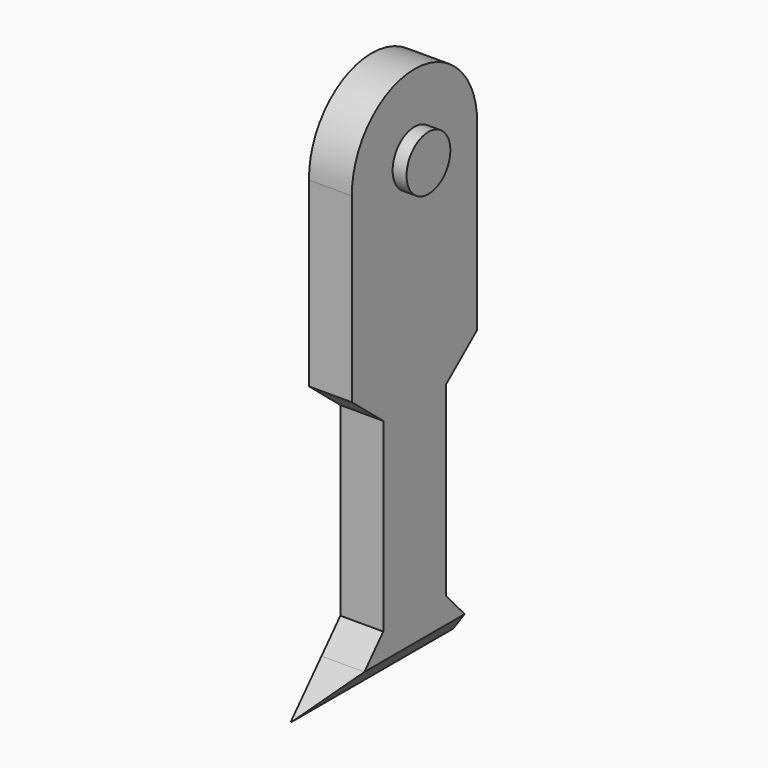
from build123d import *

# Parameters (mm, degrees)
F0_R     = 8.255
F1_DEPTH = 4.189812
F3_DEPTH = 12.934547
F4_SIZE  = 12.7


with BuildPart() as f1:
    # F0 (on Right) → F1 (new body)
    with BuildSketch(Plane.YZ):
        with Locations((0, -36.195)):
            Circle(F0_R)
    extrude(amount=-F1_DEPTH)

    # F2 (on face) → F3 (join)
    with BuildSketch(Plane(origin=(-4.189812, 0, 0), x_dir=(0, -1, 0), z_dir=(-1, 0, 0))):
        with BuildLine():
            ThreePointArc((23.570169, -36.736008), (0, -12.618623), (-23.570169, -36.736008))
            Line((-23.570169, -36.736008), (-23.570169, -91.458903))
            Line((-23.570169, -91.458903), (-11.775727, -101.195575))
            Line((-11.775727, -101.195575), (-11.775727, -157.075575))
            Line((-11.775727, -157.075575), (-18.880744, -164.907241))
            Line((-18.880744, -164.907241), (-30.402395, -177.607241))
            Line((-30.402395, -177.607241), (30.402395, -177.607241))
            Line((30.402395, -177.607241), (18.880744, -164.907241))
            Line((18.880744, -164.907241), (11.775727, -157.075575))
            Line((11.775727, -157.075575), (11.775727, -101.195575))
            Line((11.775727, -101.195575), (23.570169, -91.458903))
            Line((23.570169, -91.458903), (23.570169, -36.736008))
        make_face()
    extrude(amount=F3_DEPTH)

    # F4
    f4_edges = [f1.edges().sort_by_distance(p)[0] for p in [
        (-4.189812, 0, -177.607241),
    ]]
    chamfer(f4_edges, length=F4_SIZE)


solid = f1.part
